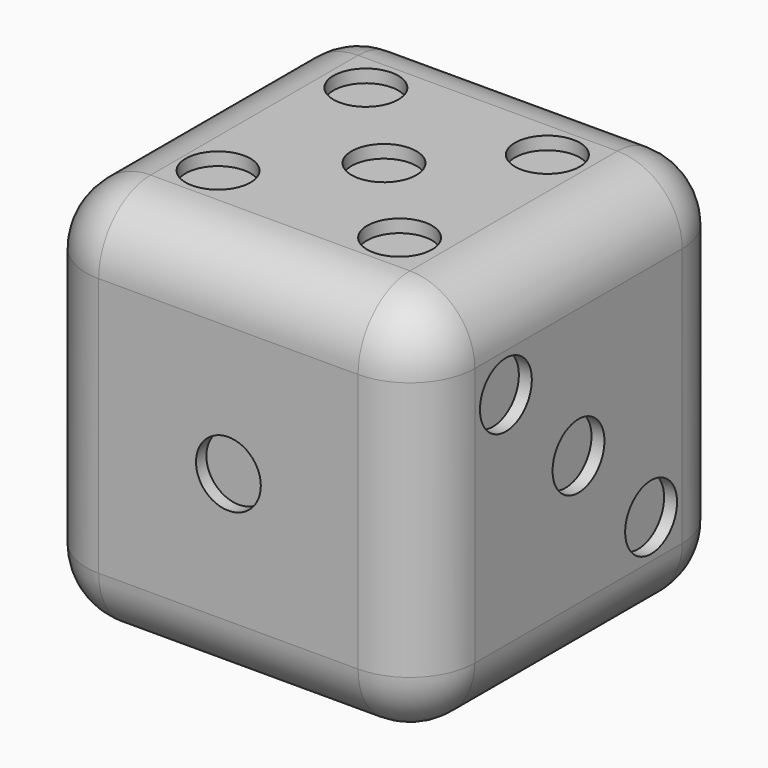
from build123d import *

# Parameters (mm, degrees)
F0_W      = 30
F0_H      = 30
F1_DEPTH  = 15
F2_R      = 2.5
F3_DEPTH  = 1
F4_R      = 2.5
F5_DEPTH  = 1
F6_R      = 2.5
F7_DEPTH  = 1
F8_R      = 2.5
F9_DEPTH  = 1
F10_R     = 2.5
F11_DEPTH = 1
F12_R     = 2.5
F13_DEPTH = 1
F14_R     = 5


with BuildPart() as f1:
    # F0 (on Front) → F1 (new body, symmetric)
    with BuildSketch(Plane.XZ):
        Rectangle(F0_W, F0_H)
    extrude(amount=F1_DEPTH, both=True)

    # F2 (on face) → F3 (cut)
    with BuildSketch(Plane.XZ.offset(15)):
        Circle(F2_R)
    extrude(amount=-F3_DEPTH, mode=Mode.SUBTRACT)

    # F4 (on face) → F5 (cut)
    with BuildSketch(Plane(origin=(0, 15, 0), x_dir=(-1, 0, 0), z_dir=(0, 1, 0))):
        with Locations((-7, 7)):
            Circle(F4_R)
        with Locations((-7, 0)):
            Circle(F4_R)
        with Locations((-7, -7)):
            Circle(F4_R)
        with Locations((7, -7)):
            Circle(F4_R)
        with Locations((7, 0)):
            Circle(F4_R)
        with Locations((7, 7)):
            Circle(F4_R)
    extrude(amount=-F5_DEPTH, mode=Mode.SUBTRACT)

    # F6 (on face) → F7 (cut)
    with BuildSketch(Plane.YZ.offset(15)):
        with Locations((-7, 7)):
            Circle(F6_R)
        Circle(F6_R)
        with Locations((7, -7)):
            Circle(F6_R)
    extrude(amount=-F7_DEPTH, mode=Mode.SUBTRACT)

    # F8 (on face) → F9 (cut)
    with BuildSketch(Plane(origin=(-15, 0, 0), x_dir=(0, -1, 0), z_dir=(-1, 0, 0))):
        with Locations((-7, 7)):
            Circle(F8_R)
        with Locations((7, 7)):
            Circle(F8_R)
        with Locations((7, -7)):
            Circle(F8_R)
        with Locations((-7, -7)):
            Circle(F8_R)
    extrude(amount=-F9_DEPTH, mode=Mode.SUBTRACT)

    # F10 (on face) → F11 (cut)
    with BuildSketch(Plane.XY.offset(15)):
        with Locations((6.801882, -6.998598)):
            Circle(F10_R)
        with Locations((-7.198118, -6.998598)):
            Circle(F10_R)
        Circle(F10_R)
        with Locations((7, 7)):
            Circle(F10_R)
        with Locations((-7, 7)):
            Circle(F10_R)
    extrude(amount=-F11_DEPTH, mode=Mode.SUBTRACT)

    # F12 (on face) → F13 (cut)
    with BuildSketch(Plane(origin=(0, 0, -15), x_dir=(1, 0, 0), z_dir=(0, 0, -1))):
        with Locations((-7, 7)):
            Circle(F12_R)
        with Locations((7, -7)):
            Circle(F12_R)
    extrude(amount=-F13_DEPTH, mode=Mode.SUBTRACT)

    # F14
    f14_edges = [f1.edges().sort_by_distance(p)[0] for p in [
        (-15, 0, 15),
        (-15, 15, 0),
        (-15, -15, 0),
        (-15, 0, -15),
        (0, -15, -15),
        (0, -15, 15),
        (15, -15, 0),
        (0, 15, -15),
        (15, 0, -15),
        (0, 15, 15),
        (15, 0, 15),
        (15, 15, 0),
    ]]
    fillet(f14_edges, radius=F14_R)


solid = f1.part
